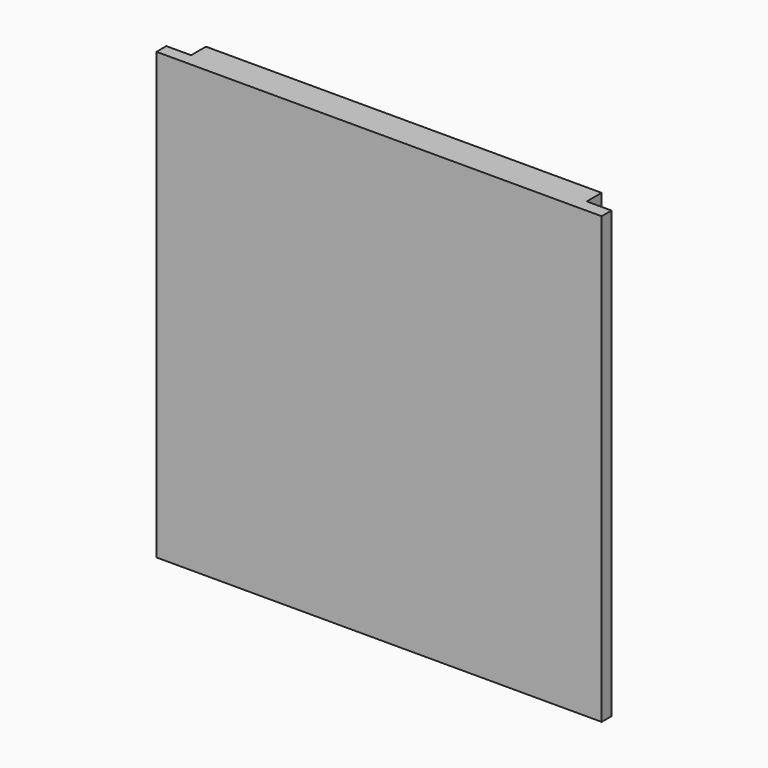
from build123d import *

# Parameters (mm, degrees)
SKETCH015_W               = 32
SKETCH015_H               = 36
EXTRUDE013_DEPTH          = 1.5
SKETCH014_W               = 36
SKETCH014_H               = 36
EXTRUDE012_DEPTH          = 1
FUSION008_PLACEMENT_ANGLE = 270


with BuildPart() as extrude013:
    # Sketch015 (on Face6 of Extrude012) → Extrude013 (new body)
    with BuildSketch(Plane.XY.offset(1)):
        Rectangle(SKETCH015_W, SKETCH015_H)
    extrude(amount=EXTRUDE013_DEPTH)


with BuildPart() as fusion008:
    # Sketch014 → Extrude012 (new body)
    with BuildSketch(Plane.XY):
        Rectangle(SKETCH014_W, SKETCH014_H)
    extrude(amount=EXTRUDE012_DEPTH)

    # Fusion008: union Extrude013
    add(extrude013.part)


with BuildPart() as fusion008_1:
    # Fusion008 placement: moved
    add(fusion008.part.moved(Location((0, 17.5, 0))).rotate(Axis((0, 17.5, 0), (1, 0, 0)), FUSION008_PLACEMENT_ANGLE))


solid = fusion008_1.part
